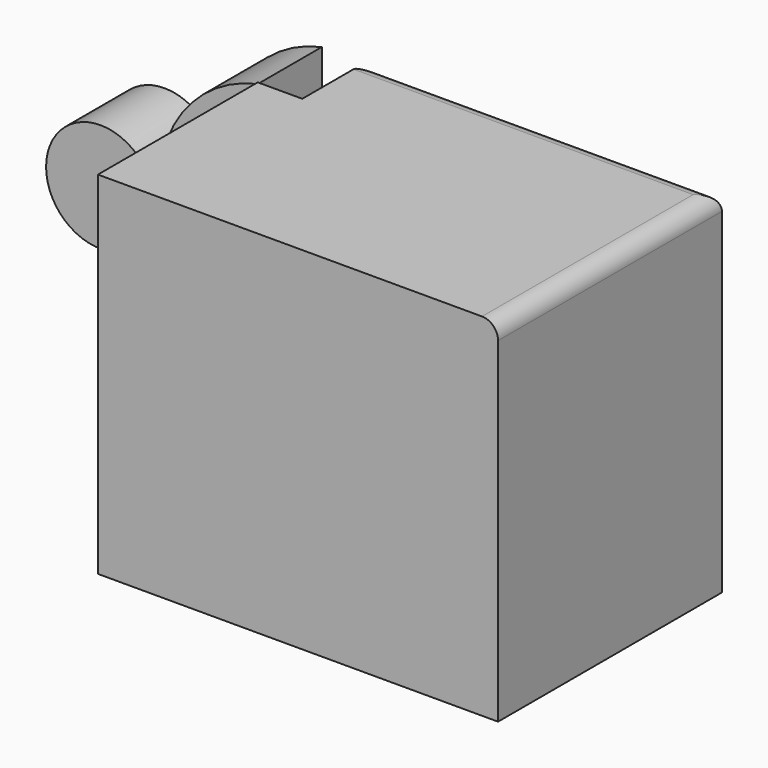
from build123d import *

# Parameters (mm, degrees)
F0_W     = 126.9167363644
F0_H     = 63.3608419448
F1_DEPTH = 53.34
F2_DEPTH = 58.166
F3_R     = 17.261452949
F4_DEPTH = 25.4
F3_R_2   = 33.9654092875
F5_R     = 5.08


with BuildPart() as f1:
    # F0 (on Top) → F1 (new body)
    with BuildSketch(Plane.XY):
        with Locations((-1.0712817311, -9.3606365845)):
            Rectangle(F0_W, F0_H)
    extrude(amount=F1_DEPTH)

    # F2 (add): a face of the model
    f2_faces = [f1.faces().sort_by_distance(p)[0] for p in [
        (-1.0712817311, -9.3606365845, 53.34),
    ]]
    extrude(f2_faces, amount=F2_DEPTH)

    # F3 (on face) → F4, piece 2 (join)
    with BuildSketch(Plane(origin=(0, 22.3197843879, 0), x_dir=(-1, 0, 0), z_dir=(0, 1, 0))):
        with BuildLine():
            ThreePointArc((64.5296499133, 33.5347614391), (87.0172235672, 47.3842028932), (95.8146265993, 72.2860842943))
            ThreePointArc((95.8146265993, 72.2860842943), (87.0172235672, 97.1879656955), (64.5296499133, 111.0374071495))
            Line((64.5296499133, 111.0374071495), (64.5296499133, 33.5347614391))
        make_face()
        with BuildLine():
            Line((64.5296499133, 0), (64.5296499133, 33.5347614391))
            ThreePointArc((64.5296499133, 33.5347614391), (17.1653041118, 65.2179208988), (50.4010917462, 111.506))
            Line((50.4010917462, 111.506), (-62.3870864511, 111.506))
            Line((-62.3870864511, 111.506), (-62.3870864511, 0))
            Line((-62.3870864511, 0), (64.5296499133, 0))
        make_face()
        with Locations((-21.7584427446, 67.5311535597)):
            Circle(F3_R_2, mode=Mode.SUBTRACT)
    extrude(amount=F4_DEPTH)

    # F5
    f5_edges = [f1.edges().sort_by_distance(p)[0] for p in [
        (5.992997, 47.719784, 111.506),
        (62.387086, 3.339363, 111.506),
    ]]
    fillet(f5_edges, radius=F5_R)


with BuildPart() as f4:
    # F3 (on face) → F4 (new body)
    with BuildSketch(Plane(origin=(0, 22.3197843879, 0), x_dir=(-1, 0, 0), z_dir=(0, 1, 0))):
        with Locations((114.402346313, 66.0765618086)):
            Circle(F3_R)
    extrude(amount=F4_DEPTH)


solid = Compound([f1.part, f4.part])
